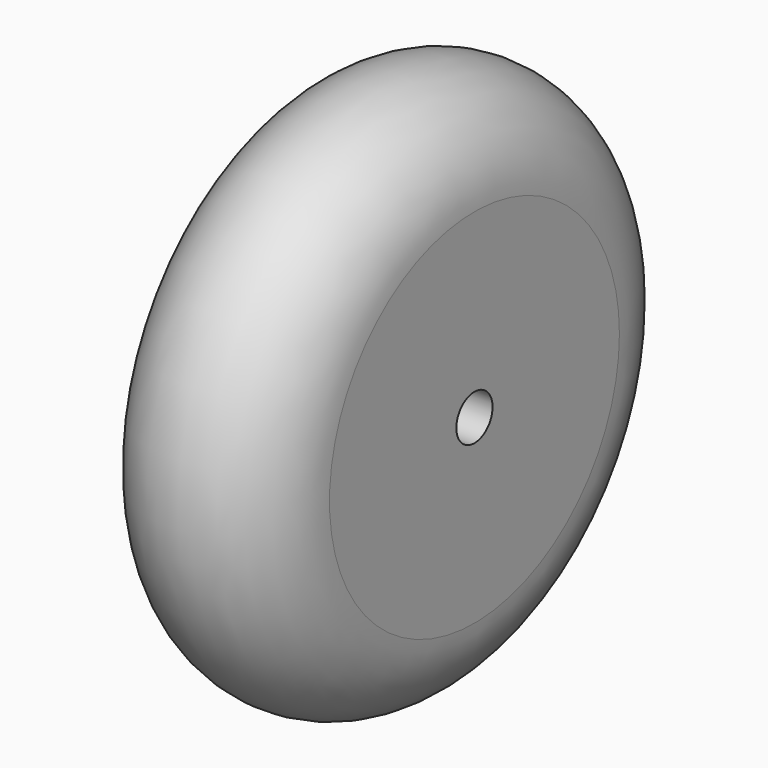
from build123d import *

# Parameters (mm, degrees)
F0_R     = 12.7
F2_R     = 25.4
F3_DEPTH = 12.7
F4_R     = 3.175
F5_DEPTH = 25.4


with BuildPart() as f1:
    # F0 (on Top) → F1 (revolve)
    with BuildSketch(Plane.XY):
        with Locations((0, 25.4)):
            Circle(F0_R)
    revolve(axis=Axis((2.317362465, 0, 0), (1, 0, 0)))

    # F2 (on Right) → F3 (join, symmetric)
    with BuildSketch(Plane.YZ):
        Circle(F2_R)
    extrude(amount=F3_DEPTH, both=True)

    # F4 (on face) → F5 (cut)
    with BuildSketch(Plane.YZ.offset(12.7)):
        Circle(F4_R)
    extrude(amount=-F5_DEPTH, mode=Mode.SUBTRACT)


solid = f1.part
